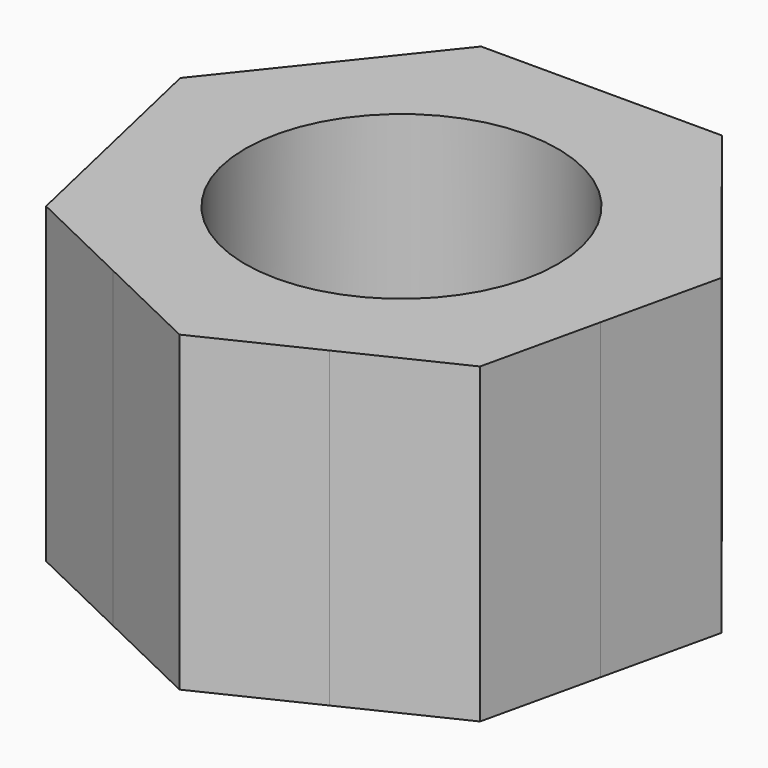
from build123d import *

# Parameters (mm, degrees)
F0_R     = 12.5
F1_DEPTH = 25


with BuildPart() as f1:
    # F0 (on Top) → F1 (new body)
    with BuildSketch(Plane.XY):
        with BuildLine():
            ThreePointArc((19.4985582729, -4.4504185509), (19.8742442052, -2.2392894567), (20, 0))
            ThreePointArc((20, 0), (18.8776666327, 6.6055811633), (15.6366297495, 12.4697959116))
            ThreePointArc((15.6366297495, 12.4697959116), (8.6776748757, 18.0193773131), (4.66e-08, 20))
            ThreePointArc((4.66e-08, 20), (-8.6776749227, 18.0193772905), (-15.6366298727, 12.4697957572))
            ThreePointArc((-15.6366298727, 12.4697957572), (-19.4985582584, 4.4504186144), (-19.4985582938, -4.4504184593))
            ThreePointArc((-19.4985582938, -4.4504184593), (-15.6366297339, -12.4697959311), (-8.6776748237, -18.0193773382))
            ThreePointArc((-8.6776748237, -18.0193773382), (0, -20), (8.6776748237, -18.0193773382))
            ThreePointArc((8.6776748237, -18.0193773382), (15.6366297047, -12.4697959678), (19.4985582729, -4.4504185509))
        make_face()
        Circle(F0_R, mode=Mode.SUBTRACT)
        with BuildLine():
            ThreePointArc((15.6366297495, 12.4697959116), (18.8776666327, 6.6055811633), (20, 0))
            ThreePointArc((20, 0), (19.8742442052, -2.2392894567), (19.4985582729, -4.4504185509))
            Line((19.4985582729, -4.4504185509), (21.6417669226, 4.9395920743))
            Line((21.6417669226, 4.9395920743), (15.6366297495, 12.4697959116))
        make_face()
        with BuildLine():
            ThreePointArc((4.66e-08, 20), (8.6776748757, 18.0193773131), (15.6366297495, 12.4697959116))
            Line((15.6366297495, 12.4697959116), (9.6314923762, 20))
            Line((9.6314923762, 20), (4.66e-08, 20))
        make_face()
        with BuildLine():
            Line((17.3553495647, -13.8404294326), (19.4985582729, -4.4504185509))
            ThreePointArc((19.4985582729, -4.4504185509), (15.6366297047, -12.4697959678), (8.6776748237, -18.0193773382))
            Line((8.6776748237, -18.0193773382), (17.3553495647, -13.8404294326))
        make_face()
        with BuildLine():
            ThreePointArc((-15.6366298727, 12.4697957572), (-8.6776749227, 18.0193772905), (4.66e-08, 20))
            Line((4.66e-08, 20), (-9.6314923762, 20))
            Line((-9.6314923762, 20), (-15.6366298727, 12.4697957572))
        make_face()
        with BuildLine():
            Line((0, -22.1983252835), (8.6776748237, -18.0193773382))
            ThreePointArc((8.6776748237, -18.0193773382), (0, -20), (-8.6776748237, -18.0193773382))
            Line((-8.6776748237, -18.0193773382), (0, -22.1983252835))
        make_face()
        with BuildLine():
            ThreePointArc((-19.4985582938, -4.4504184593), (-19.4985582584, 4.4504186144), (-15.6366298727, 12.4697957572))
            Line((-15.6366298727, 12.4697957572), (-21.6417669226, 4.9395920743))
            Line((-21.6417669226, 4.9395920743), (-19.4985582938, -4.4504184593))
        make_face()
        with BuildLine():
            Line((-17.3553495647, -13.8404294326), (-8.6776748237, -18.0193773382))
            ThreePointArc((-8.6776748237, -18.0193773382), (-15.6366297339, -12.4697959311), (-19.4985582938, -4.4504184593))
            Line((-19.4985582938, -4.4504184593), (-17.3553495647, -13.8404294326))
        make_face()
    extrude(amount=F1_DEPTH)


solid = f1.part
